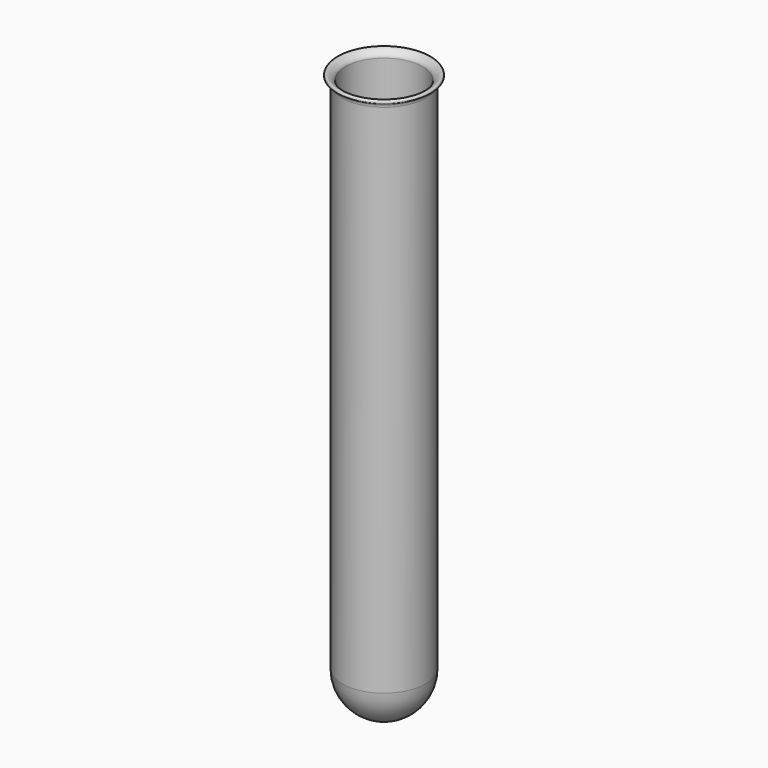
from build123d import *


with BuildPart() as f1:
    # F0 (on Front) → F1 (revolve)
    with BuildSketch(Plane.XZ):
        with BuildLine():
            Line((-12, 160), (-12, 12))
            ThreePointArc((-12, 12), (-8.4852813742, 3.5147186258), (0, 0))
            Line((0, 0), (0, 1))
            ThreePointArc((0, 1), (-7.7781745931, 4.2218254069), (-11, 12))
            Line((-11, 12), (-11, 160.5))
            add(Edge.make_bspline(
                [(-12, 160), (-11.9189271751, 160.7724214921), (-12.8397703817, 161.4542636477), (-13.5805845381, 161.6264747054), (-13.2917450188, 162.5712767334), (-12.2868417788, 162.2944279287), (-10.9640822815, 161.1757620141), (-11, 160.5)],
                knots=[0, 0, 0, 0, 0.2445724588, 0.393648333, 0.5437827455, 0.7205669454, 1, 1, 1, 1], degree=3))
        make_face()
    revolve(axis=Axis((0, 0, 25), (0, 0, -1)))


solid = f1.part
